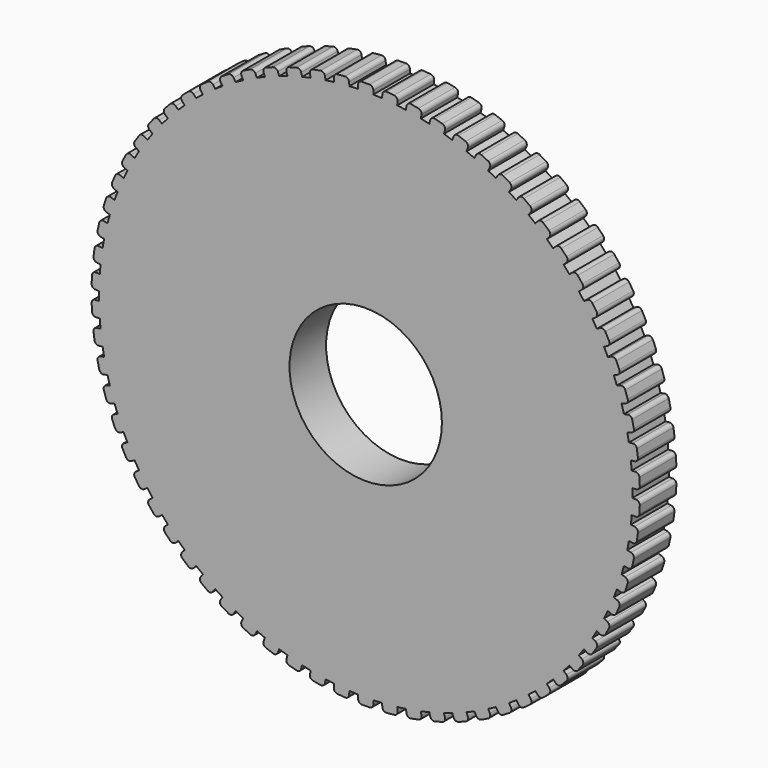
from build123d import *

# Parameters (mm, degrees)
F0_R     = 10
F1_DEPTH = 6


with BuildPart() as f1:
    # F0 (on Front) → F1 (new body)
    with BuildSketch(Plane.XZ):
        with BuildLine():
            Line((-1, 35.485711), (-1, 34.985711))
            ThreePointArc((-1, 34.985711), (-1.570269, 34.964757), (-2.140121, 34.934508))
            Line((-2.140121, 34.934508), (-2.18494, 35.432496))
            ThreePointArc((-2.18494, 35.432496), (-2.36249, 35.771498), (-2.727747, 35.885663))
            Line((-2.727747, 35.885663), (-3.723721, 35.796024))
            ThreePointArc((-3.723721, 35.796024), (-4.062724, 35.618474), (-4.176889, 35.253217))
            Line((-4.176889, 35.253217), (-4.132069, 34.75523))
            ThreePointArc((-4.132069, 34.75523), (-4.698164, 34.683242), (-5.26301, 34.602033))
            Line((-5.26301, 34.602033), (-5.352289, 35.093998))
            ThreePointArc((-5.352289, 35.093998), (-5.559511, 35.415721), (-5.933532, 35.496685))
            Line((-5.933532, 35.496685), (-6.917462, 35.318128))
            ThreePointArc((-6.917462, 35.318128), (-7.239184, 35.110905), (-7.320148, 34.736884))
            Line((-7.320148, 34.736884), (-7.23087, 34.24492))
            ThreePointArc((-7.23087, 34.24492), (-7.788233, 34.122477), (-8.343525, 33.990963))
            Line((-8.343525, 33.990963), (-8.476544, 34.472945))
            ThreePointArc((-8.476544, 34.472945), (-8.711771, 34.774797), (-9.091544, 34.821908))
            Line((-9.091544, 34.821908), (-10.055507, 34.555871))
            ThreePointArc((-10.055507, 34.555871), (-10.357359, 34.320644), (-10.40447, 33.940871))
            Line((-10.40447, 33.940871), (-10.271451, 33.45889))
            ThreePointArc((-10.271451, 33.45889), (-10.815595, 33.286978), (-11.356863, 33.106218))
            Line((-11.356863, 33.106218), (-11.532551, 33.574335))
            ThreePointArc((-11.532551, 33.574335), (-11.793889, 33.853887), (-12.176356, 33.866765))
            Line((-12.176356, 33.866765), (-13.11259, 33.51539))
            ThreePointArc((-13.11259, 33.51539), (-13.392142, 33.254052), (-13.40502, 32.871586))
            Line((-13.40502, 32.871586), (-13.229333, 32.403468))
            ThreePointArc((-13.229333, 32.403468), (-13.755876, 32.183472), (-14.278762, 31.954921))
            Line((-14.278762, 31.954921), (-14.495704, 32.405405))
            ThreePointArc((-14.495704, 32.405405), (-14.781049, 32.660405), (-15.163131, 32.638948))
            Line((-15.163131, 32.638948), (-16.064099, 32.205064))
            ThreePointArc((-16.064099, 32.205064), (-16.319099, 31.919719), (-16.297642, 31.537637))
            Line((-16.297642, 31.537637), (-16.0807, 31.087153))
            ThreePointArc((-16.0807, 31.087153), (-16.585403, 30.820844), (-17.085697, 30.546341))
            Line((-17.085697, 30.546341), (-17.342147, 30.975565))
            ThreePointArc((-17.342147, 30.975565), (-17.649201, 31.203961), (-18.027821, 31.14834))
            Line((-18.027821, 31.14834), (-18.88627, 30.635441))
            ThreePointArc((-18.88627, 30.635441), (-19.114665, 30.328387), (-19.059045, 29.949767))
            Line((-19.059045, 29.949767), (-18.802595, 29.520542))
            ThreePointArc((-18.802595, 29.520542), (-19.281394, 29.210064), (-19.755068, 28.89182))
            Line((-19.755068, 28.89182), (-20.048961, 29.296329))
            ThreePointArc((-20.048961, 29.296329), (-20.375252, 29.49628), (-20.747362, 29.406945))
            Line((-20.747362, 29.406945), (-21.556379, 28.819159))
            ThreePointArc((-21.556379, 28.819159), (-21.75633, 28.492868), (-21.666995, 28.120758))
            Line((-21.666995, 28.120758), (-21.373102, 27.71625))
            ThreePointArc((-21.373102, 27.71625), (-21.822143, 27.364102), (-22.265383, 27.00468))
            Line((-22.265383, 27.00468), (-22.594352, 27.381215))
            ThreePointArc((-22.594352, 27.381215), (-22.937253, 27.551113), (-23.299857, 27.428782))
            Line((-23.299857, 27.428782), (-24.052929, 26.770843))
            ThreePointArc((-24.052929, 26.770843), (-24.222827, 26.427942), (-24.100495, 26.065338))
            Line((-24.100495, 26.065338), (-23.771526, 25.688802))
            ThreePointArc((-23.771526, 25.688802), (-24.187193, 25.29782), (-24.59643, 24.900113))
            Line((-24.59643, 24.900113), (-24.957827, 25.245645))
            ThreePointArc((-24.957827, 25.245645), (-25.314578, 25.384121), (-25.664756, 25.229778))
            Line((-25.664756, 25.229778), (-26.355819, 24.506984))
            ThreePointArc((-26.355819, 24.506984), (-26.494295, 24.150233), (-26.339953, 23.800055))
            Line((-26.339953, 23.800055), (-25.978555, 23.454524))
            ThreePointArc((-25.978555, 23.454524), (-26.357501, 23.027855), (-26.729441, 22.595066))
            Line((-26.729441, 22.595066), (-27.120357, 22.906811))
            ThreePointArc((-27.120357, 22.906811), (-27.488084, 23.012751), (-27.823017, 22.82764))
            Line((-27.823017, 22.82764), (-28.446507, 22.045808))
            ThreePointArc((-28.446507, 22.045808), (-28.552447, 21.678081), (-28.367336, 21.343148))
            Line((-28.367336, 21.343148), (-27.97642, 21.031403))
            ThreePointArc((-27.97642, 21.031403), (-28.315595, 20.572484), (-28.647242, 20.108096))
            Line((-28.647242, 20.108096), (-29.064529, 20.383545))
            ThreePointArc((-29.064529, 20.383545), (-29.440272, 20.456096), (-29.757264, 20.241706))
            Line((-29.757264, 20.241706), (-30.308161, 19.407133))
            ThreePointArc((-30.308161, 19.407133), (-30.380712, 19.03139), (-30.166323, 18.714398))
            Line((-30.166323, 18.714398), (-29.749036, 18.43895))
            ThreePointArc((-29.749036, 18.43895), (-30.045708, 17.951475), (-30.334392, 17.459228))
            Line((-30.334392, 17.459228), (-30.77469, 17.696162))
            ThreePointArc((-30.77469, 17.696162), (-31.155424, 17.73474), (-31.451922, 17.492799))
            Line((-31.451922, 17.492799), (-31.925791, 16.612203))
            ThreePointArc((-31.925791, 16.612203), (-31.964369, 16.231469), (-31.722428, 15.934971))
            Line((-31.722428, 15.934971), (-31.28213, 15.698037))
            ThreePointArc((-31.28213, 15.698037), (-31.53391, 15.185931), (-31.777308, 14.669788))
            Line((-31.777308, 14.669788), (-32.237072, 14.866301))
            ThreePointArc((-32.237072, 14.866301), (-32.619731, 14.870594), (-32.893349, 14.603049))
            Line((-32.893349, 14.603049), (-33.286374, 13.683521))
            ThreePointArc((-33.286374, 13.683521), (-33.290667, 13.300862), (-33.023122, 13.027245))
            Line((-33.023122, 13.027245), (-32.563358, 12.830733))
            ThreePointArc((-32.563358, 12.830733), (-32.76822, 12.298119), (-32.964372, 11.762236))
            Line((-32.964372, 11.762236), (-33.4399, 11.916744))
            ThreePointArc((-33.4399, 11.916744), (-33.821404, 11.886719), (-34.069937, 11.595725))
            Line((-34.069937, 11.595725), (-34.378954, 10.644668))
            ThreePointArc((-34.378954, 10.644668), (-34.348929, 10.263164), (-34.057934, 10.014631))
            Line((-34.057934, 10.014631), (-33.582406, 9.860123))
            ThreePointArc((-33.582406, 9.860123), (-33.7387, 9.31129), (-33.886026, 8.759981))
            Line((-33.886026, 8.759981), (-34.37349, 8.871242))
            ThreePointArc((-34.37349, 8.871242), (-34.750766, 8.80714), (-34.972214, 8.495038))
            Line((-34.972214, 8.495038), (-35.194735, 7.52011))
            ThreePointArc((-35.194735, 7.52011), (-35.130633, 7.142834), (-34.818531, 6.921386))
            Line((-34.818531, 6.921386), (-34.331067, 6.810125))
            ThreePointArc((-34.331067, 6.810125), (-34.437536, 6.249491), (-34.534849, 5.687196))
            Line((-34.534849, 5.687196), (-35.030324, 5.754313))
            ThreePointArc((-35.030324, 5.754313), (-35.400336, 5.65665), (-35.592915, 5.325954))
            Line((-35.592915, 5.325954), (-35.727149, 4.335005))
            ThreePointArc((-35.727149, 4.335005), (-35.629486, 3.964993), (-35.29879, 3.772413))
            Line((-35.29879, 3.772413), (-34.803316, 3.705297))
            ThreePointArc((-34.803316, 3.705297), (-34.8591, 3.137376), (-34.905618, 2.568621))
            Line((-34.905618, 2.568621), (-35.405115, 2.591053))
            ThreePointArc((-35.405115, 2.591053), (-35.764882, 2.460616), (-35.927044, 2.113989))
            Line((-35.927044, 2.113989), (-35.971909, 1.114996))
            ThreePointArc((-35.971909, 1.114996), (-35.841472, 0.755229), (-35.494844, 0.593067))
            Line((-35.494844, 0.593067), (-34.995348, 0.570635))
            ThreePointArc((-34.995348, 0.570635), (-35, 0), (-34.995348, -0.570635))
            Line((-34.995348, -0.570635), (-35.494844, -0.593067))
            ThreePointArc((-35.494844, -0.593067), (-35.841472, -0.755229), (-35.971909, -1.114996))
            Line((-35.971909, -1.114996), (-35.927044, -2.113989))
            ThreePointArc((-35.927044, -2.113989), (-35.764882, -2.460616), (-35.405115, -2.591053))
            Line((-35.405115, -2.591053), (-34.905618, -2.568621))
            ThreePointArc((-34.905618, -2.568621), (-34.8591, -3.137376), (-34.803316, -3.705297))
            Line((-34.803316, -3.705297), (-35.29879, -3.772413))
            ThreePointArc((-35.29879, -3.772413), (-35.629486, -3.964993), (-35.727149, -4.335005))
            Line((-35.727149, -4.335005), (-35.592915, -5.325954))
            ThreePointArc((-35.592915, -5.325954), (-35.400336, -5.65665), (-35.030324, -5.754313))
            Line((-35.030324, -5.754313), (-34.534849, -5.687196))
            ThreePointArc((-34.534849, -5.687196), (-34.437536, -6.249491), (-34.331067, -6.810125))
            Line((-34.331067, -6.810125), (-34.818531, -6.921386))
            ThreePointArc((-34.818531, -6.921386), (-35.130633, -7.142834), (-35.194735, -7.52011))
            Line((-35.194735, -7.52011), (-34.972214, -8.495038))
            ThreePointArc((-34.972214, -8.495038), (-34.750766, -8.80714), (-34.37349, -8.871242))
            Line((-34.37349, -8.871242), (-33.886026, -8.759981))
            ThreePointArc((-33.886026, -8.759981), (-33.7387, -9.31129), (-33.582406, -9.860123))
            Line((-33.582406, -9.860123), (-34.057934, -10.014631))
            ThreePointArc((-34.057934, -10.014631), (-34.348929, -10.263164), (-34.378954, -10.644668))
            Line((-34.378954, -10.644668), (-34.069937, -11.595725))
            ThreePointArc((-34.069937, -11.595725), (-33.821404, -11.886719), (-33.4399, -11.916744))
            Line((-33.4399, -11.916744), (-32.964372, -11.762236))
            ThreePointArc((-32.964372, -11.762236), (-32.76822, -12.298119), (-32.563358, -12.830733))
            Line((-32.563358, -12.830733), (-33.023122, -13.027245))
            ThreePointArc((-33.023122, -13.027245), (-33.290667, -13.300862), (-33.286374, -13.683521))
            Line((-33.286374, -13.683521), (-32.893349, -14.603049))
            ThreePointArc((-32.893349, -14.603049), (-32.619731, -14.870594), (-32.237072, -14.866301))
            Line((-32.237072, -14.866301), (-31.777308, -14.669788))
            ThreePointArc((-31.777308, -14.669788), (-31.53391, -15.185931), (-31.28213, -15.698037))
            Line((-31.28213, -15.698037), (-31.722428, -15.934971))
            ThreePointArc((-31.722428, -15.934971), (-31.964369, -16.231469), (-31.925791, -16.612203))
            Line((-31.925791, -16.612203), (-31.451922, -17.492799))
            ThreePointArc((-31.451922, -17.492799), (-31.155424, -17.73474), (-30.77469, -17.696162))
            Line((-30.77469, -17.696162), (-30.334392, -17.459228))
            ThreePointArc((-30.334392, -17.459228), (-30.045708, -17.951475), (-29.749036, -18.43895))
            Line((-29.749036, -18.43895), (-30.166323, -18.714398))
            ThreePointArc((-30.166323, -18.714398), (-30.380712, -19.03139), (-30.308161, -19.407133))
            Line((-30.308161, -19.407133), (-29.757264, -20.241706))
            ThreePointArc((-29.757264, -20.241706), (-29.440272, -20.456096), (-29.064529, -20.383545))
            Line((-29.064529, -20.383545), (-28.647242, -20.108096))
            ThreePointArc((-28.647242, -20.108096), (-28.315595, -20.572484), (-27.97642, -21.031403))
            Line((-27.97642, -21.031403), (-28.367336, -21.343148))
            ThreePointArc((-28.367336, -21.343148), (-28.552447, -21.678081), (-28.446507, -22.045808))
            Line((-28.446507, -22.045808), (-27.823017, -22.82764))
            ThreePointArc((-27.823017, -22.82764), (-27.488084, -23.012751), (-27.120357, -22.906811))
            Line((-27.120357, -22.906811), (-26.729441, -22.595066))
            ThreePointArc((-26.729441, -22.595066), (-26.357501, -23.027855), (-25.978555, -23.454524))
            Line((-25.978555, -23.454524), (-26.339953, -23.800055))
            ThreePointArc((-26.339953, -23.800055), (-26.494295, -24.150233), (-26.355819, -24.506984))
            Line((-26.355819, -24.506984), (-25.664756, -25.229778))
            ThreePointArc((-25.664756, -25.229778), (-25.314578, -25.384121), (-24.957827, -25.245645))
            Line((-24.957827, -25.245645), (-24.59643, -24.900113))
            ThreePointArc((-24.59643, -24.900113), (-24.187193, -25.29782), (-23.771526, -25.688802))
            Line((-23.771526, -25.688802), (-24.100495, -26.065338))
            ThreePointArc((-24.100495, -26.065338), (-24.222827, -26.427942), (-24.052929, -26.770843))
            Line((-24.052929, -26.770843), (-23.299857, -27.428782))
            ThreePointArc((-23.299857, -27.428782), (-22.937253, -27.551113), (-22.594352, -27.381215))
            Line((-22.594352, -27.381215), (-22.265383, -27.00468))
            ThreePointArc((-22.265383, -27.00468), (-21.822143, -27.364102), (-21.373102, -27.71625))
            Line((-21.373102, -27.71625), (-21.666995, -28.120758))
            ThreePointArc((-21.666995, -28.120758), (-21.75633, -28.492868), (-21.556379, -28.819159))
            Line((-21.556379, -28.819159), (-20.747362, -29.406945))
            ThreePointArc((-20.747362, -29.406945), (-20.375252, -29.49628), (-20.048961, -29.296329))
            Line((-20.048961, -29.296329), (-19.755068, -28.89182))
            ThreePointArc((-19.755068, -28.89182), (-19.281394, -29.210064), (-18.802595, -29.520542))
            Line((-18.802595, -29.520542), (-19.059045, -29.949767))
            ThreePointArc((-19.059045, -29.949767), (-19.114665, -30.328387), (-18.88627, -30.635441))
            Line((-18.88627, -30.635441), (-18.027821, -31.14834))
            ThreePointArc((-18.027821, -31.14834), (-17.649201, -31.203961), (-17.342147, -30.975565))
            Line((-17.342147, -30.975565), (-17.085697, -30.546341))
            ThreePointArc((-17.085697, -30.546341), (-16.585403, -30.820844), (-16.0807, -31.087153))
            Line((-16.0807, -31.087153), (-16.297642, -31.537637))
            ThreePointArc((-16.297642, -31.537637), (-16.319099, -31.919719), (-16.064099, -32.205064))
            Line((-16.064099, -32.205064), (-15.163131, -32.638948))
            ThreePointArc((-15.163131, -32.638948), (-14.781049, -32.660405), (-14.495704, -32.405405))
            Line((-14.495704, -32.405405), (-14.278762, -31.954921))
            ThreePointArc((-14.278762, -31.954921), (-13.755876, -32.183472), (-13.229333, -32.403468))
            Line((-13.229333, -32.403468), (-13.40502, -32.871586))
            ThreePointArc((-13.40502, -32.871586), (-13.392142, -33.254052), (-13.11259, -33.51539))
            Line((-13.11259, -33.51539), (-12.176356, -33.866765))
            ThreePointArc((-12.176356, -33.866765), (-11.793889, -33.853887), (-11.532551, -33.574335))
            Line((-11.532551, -33.574335), (-11.356863, -33.106218))
            ThreePointArc((-11.356863, -33.106218), (-10.815595, -33.286978), (-10.271451, -33.45889))
            Line((-10.271451, -33.45889), (-10.40447, -33.940871))
            ThreePointArc((-10.40447, -33.940871), (-10.357359, -34.320644), (-10.055507, -34.555871))
            Line((-10.055507, -34.555871), (-9.091544, -34.821908))
            ThreePointArc((-9.091544, -34.821908), (-8.711771, -34.774797), (-8.476544, -34.472945))
            Line((-8.476544, -34.472945), (-8.343525, -33.990963))
            ThreePointArc((-8.343525, -33.990963), (-7.788233, -34.122477), (-7.23087, -34.24492))
            Line((-7.23087, -34.24492), (-7.320148, -34.736884))
            ThreePointArc((-7.320148, -34.736884), (-7.239184, -35.110905), (-6.917462, -35.318128))
            Line((-6.917462, -35.318128), (-5.933532, -35.496685))
            ThreePointArc((-5.933532, -35.496685), (-5.559511, -35.415721), (-5.352289, -35.093998))
            Line((-5.352289, -35.093998), (-5.26301, -34.602033))
            ThreePointArc((-5.26301, -34.602033), (-4.698164, -34.683242), (-4.132069, -34.75523))
            Line((-4.132069, -34.75523), (-4.176889, -35.253217))
            ThreePointArc((-4.176889, -35.253217), (-4.062724, -35.618474), (-3.723721, -35.796024))
            Line((-3.723721, -35.796024), (-2.727747, -35.885663))
            ThreePointArc((-2.727747, -35.885663), (-2.36249, -35.771498), (-2.18494, -35.432496))
            Line((-2.18494, -35.432496), (-2.140121, -34.934508))
            ThreePointArc((-2.140121, -34.934508), (-1.570269, -34.964757), (-1, -34.985711))
            Line((-1, -34.985711), (-1, -35.485711))
            ThreePointArc((-1, -35.485711), (-0.853553, -35.839265), (-0.5, -35.985711))
            Line((-0.5, -35.985711), (0.5, -35.985711))
            ThreePointArc((0.5, -35.985711), (0.853553, -35.839265), (1, -35.485711))
            Line((1, -35.485711), (1, -34.985711))
            ThreePointArc((1, -34.985711), (1.570269, -34.964757), (2.140121, -34.934508))
            Line((2.140121, -34.934508), (2.18494, -35.432496))
            ThreePointArc((2.18494, -35.432496), (2.36249, -35.771498), (2.727747, -35.885663))
            Line((2.727747, -35.885663), (3.723721, -35.796024))
            ThreePointArc((3.723721, -35.796024), (4.062724, -35.618474), (4.176889, -35.253217))
            Line((4.176889, -35.253217), (4.132069, -34.75523))
            ThreePointArc((4.132069, -34.75523), (4.698164, -34.683242), (5.26301, -34.602033))
            Line((5.26301, -34.602033), (5.352289, -35.093998))
            ThreePointArc((5.352289, -35.093998), (5.559511, -35.415721), (5.933532, -35.496685))
            Line((5.933532, -35.496685), (6.917462, -35.318128))
            ThreePointArc((6.917462, -35.318128), (7.239184, -35.110905), (7.320148, -34.736884))
            Line((7.320148, -34.736884), (7.23087, -34.24492))
            ThreePointArc((7.23087, -34.24492), (7.788233, -34.122477), (8.343525, -33.990963))
            Line((8.343525, -33.990963), (8.476544, -34.472945))
            ThreePointArc((8.476544, -34.472945), (8.711771, -34.774797), (9.091544, -34.821908))
            Line((9.091544, -34.821908), (10.055507, -34.555871))
            ThreePointArc((10.055507, -34.555871), (10.357359, -34.320644), (10.40447, -33.940871))
            Line((10.40447, -33.940871), (10.271451, -33.45889))
            ThreePointArc((10.271451, -33.45889), (10.815595, -33.286978), (11.356863, -33.106218))
            Line((11.356863, -33.106218), (11.532551, -33.574335))
            ThreePointArc((11.532551, -33.574335), (11.793889, -33.853887), (12.176356, -33.866765))
            Line((12.176356, -33.866765), (13.11259, -33.51539))
            ThreePointArc((13.11259, -33.51539), (13.392142, -33.254052), (13.40502, -32.871586))
            Line((13.40502, -32.871586), (13.229333, -32.403468))
            ThreePointArc((13.229333, -32.403468), (13.755876, -32.183472), (14.278762, -31.954921))
            Line((14.278762, -31.954921), (14.495704, -32.405405))
            ThreePointArc((14.495704, -32.405405), (14.781049, -32.660405), (15.163131, -32.638948))
            Line((15.163131, -32.638948), (16.064099, -32.205064))
            ThreePointArc((16.064099, -32.205064), (16.319099, -31.919719), (16.297642, -31.537637))
            Line((16.297642, -31.537637), (16.0807, -31.087153))
            ThreePointArc((16.0807, -31.087153), (16.585403, -30.820844), (17.085697, -30.546341))
            Line((17.085697, -30.546341), (17.342147, -30.975565))
            ThreePointArc((17.342147, -30.975565), (17.649201, -31.203961), (18.027821, -31.14834))
            Line((18.027821, -31.14834), (18.88627, -30.635441))
            ThreePointArc((18.88627, -30.635441), (19.114665, -30.328387), (19.059045, -29.949767))
            Line((19.059045, -29.949767), (18.802595, -29.520542))
            ThreePointArc((18.802595, -29.520542), (19.281394, -29.210064), (19.755068, -28.89182))
            Line((19.755068, -28.89182), (20.048961, -29.296329))
            ThreePointArc((20.048961, -29.296329), (20.375252, -29.49628), (20.747362, -29.406945))
            Line((20.747362, -29.406945), (21.556379, -28.819159))
            ThreePointArc((21.556379, -28.819159), (21.75633, -28.492868), (21.666995, -28.120758))
            Line((21.666995, -28.120758), (21.373102, -27.71625))
            ThreePointArc((21.373102, -27.71625), (21.822143, -27.364102), (22.265383, -27.00468))
            Line((22.265383, -27.00468), (22.594352, -27.381215))
            ThreePointArc((22.594352, -27.381215), (22.937253, -27.551113), (23.299857, -27.428782))
            Line((23.299857, -27.428782), (24.052929, -26.770843))
            ThreePointArc((24.052929, -26.770843), (24.222827, -26.427942), (24.100495, -26.065338))
            Line((24.100495, -26.065338), (23.771526, -25.688802))
            ThreePointArc((23.771526, -25.688802), (24.187193, -25.29782), (24.59643, -24.900113))
            Line((24.59643, -24.900113), (24.957827, -25.245645))
            ThreePointArc((24.957827, -25.245645), (25.314578, -25.384121), (25.664756, -25.229778))
            Line((25.664756, -25.229778), (26.355819, -24.506984))
            ThreePointArc((26.355819, -24.506984), (26.494295, -24.150233), (26.339953, -23.800055))
            Line((26.339953, -23.800055), (25.978555, -23.454524))
            ThreePointArc((25.978555, -23.454524), (26.357501, -23.027855), (26.729441, -22.595066))
            Line((26.729441, -22.595066), (27.120357, -22.906811))
            ThreePointArc((27.120357, -22.906811), (27.488084, -23.012751), (27.823017, -22.82764))
            Line((27.823017, -22.82764), (28.446507, -22.045808))
            ThreePointArc((28.446507, -22.045808), (28.552447, -21.678081), (28.367336, -21.343148))
            Line((28.367336, -21.343148), (27.97642, -21.031403))
            ThreePointArc((27.97642, -21.031403), (28.315595, -20.572484), (28.647242, -20.108096))
            Line((28.647242, -20.108096), (29.064529, -20.383545))
            ThreePointArc((29.064529, -20.383545), (29.440272, -20.456096), (29.757264, -20.241706))
            Line((29.757264, -20.241706), (30.308161, -19.407133))
            ThreePointArc((30.308161, -19.407133), (30.380712, -19.03139), (30.166323, -18.714398))
            Line((30.166323, -18.714398), (29.749036, -18.43895))
            ThreePointArc((29.749036, -18.43895), (30.045708, -17.951475), (30.334392, -17.459228))
            Line((30.334392, -17.459228), (30.77469, -17.696162))
            ThreePointArc((30.77469, -17.696162), (31.155424, -17.73474), (31.451922, -17.492799))
            Line((31.451922, -17.492799), (31.925791, -16.612203))
            ThreePointArc((31.925791, -16.612203), (31.964369, -16.231469), (31.722428, -15.934971))
            Line((31.722428, -15.934971), (31.28213, -15.698037))
            ThreePointArc((31.28213, -15.698037), (31.53391, -15.185931), (31.777308, -14.669788))
            Line((31.777308, -14.669788), (32.237072, -14.866301))
            ThreePointArc((32.237072, -14.866301), (32.619731, -14.870594), (32.893349, -14.603049))
            Line((32.893349, -14.603049), (33.286374, -13.683521))
            ThreePointArc((33.286374, -13.683521), (33.290667, -13.300862), (33.023122, -13.027245))
            Line((33.023122, -13.027245), (32.563358, -12.830733))
            ThreePointArc((32.563358, -12.830733), (32.76822, -12.298119), (32.964372, -11.762236))
            Line((32.964372, -11.762236), (33.4399, -11.916744))
            ThreePointArc((33.4399, -11.916744), (33.821404, -11.886719), (34.069937, -11.595725))
            Line((34.069937, -11.595725), (34.378954, -10.644668))
            ThreePointArc((34.378954, -10.644668), (34.348929, -10.263164), (34.057934, -10.014631))
            Line((34.057934, -10.014631), (33.582406, -9.860123))
            ThreePointArc((33.582406, -9.860123), (33.7387, -9.31129), (33.886026, -8.759981))
            Line((33.886026, -8.759981), (34.37349, -8.871242))
            ThreePointArc((34.37349, -8.871242), (34.750766, -8.80714), (34.972214, -8.495038))
            Line((34.972214, -8.495038), (35.194735, -7.52011))
            ThreePointArc((35.194735, -7.52011), (35.130633, -7.142834), (34.818531, -6.921386))
            Line((34.818531, -6.921386), (34.331067, -6.810125))
            ThreePointArc((34.331067, -6.810125), (34.437536, -6.249491), (34.534849, -5.687196))
            Line((34.534849, -5.687196), (35.030324, -5.754313))
            ThreePointArc((35.030324, -5.754313), (35.400336, -5.65665), (35.592915, -5.325954))
            Line((35.592915, -5.325954), (35.727149, -4.335005))
            ThreePointArc((35.727149, -4.335005), (35.629486, -3.964993), (35.29879, -3.772413))
            Line((35.29879, -3.772413), (34.803316, -3.705297))
            ThreePointArc((34.803316, -3.705297), (34.8591, -3.137376), (34.905618, -2.568621))
            Line((34.905618, -2.568621), (35.405115, -2.591053))
            ThreePointArc((35.405115, -2.591053), (35.764882, -2.460616), (35.927044, -2.113989))
            Line((35.927044, -2.113989), (35.971909, -1.114996))
            ThreePointArc((35.971909, -1.114996), (35.841472, -0.755229), (35.494844, -0.593067))
            Line((35.494844, -0.593067), (34.995348, -0.570635))
            ThreePointArc((34.995348, -0.570635), (35, 0), (34.995348, 0.570635))
            Line((34.995348, 0.570635), (35.494844, 0.593067))
            ThreePointArc((35.494844, 0.593067), (35.841472, 0.755229), (35.971909, 1.114996))
            Line((35.971909, 1.114996), (35.927044, 2.113989))
            ThreePointArc((35.927044, 2.113989), (35.764882, 2.460616), (35.405115, 2.591053))
            Line((35.405115, 2.591053), (34.905618, 2.568621))
            ThreePointArc((34.905618, 2.568621), (34.8591, 3.137376), (34.803316, 3.705297))
            Line((34.803316, 3.705297), (35.29879, 3.772413))
            ThreePointArc((35.29879, 3.772413), (35.629486, 3.964993), (35.727149, 4.335005))
            Line((35.727149, 4.335005), (35.592915, 5.325954))
            ThreePointArc((35.592915, 5.325954), (35.400336, 5.65665), (35.030324, 5.754313))
            Line((35.030324, 5.754313), (34.534849, 5.687196))
            ThreePointArc((34.534849, 5.687196), (34.437536, 6.249491), (34.331067, 6.810125))
            Line((34.331067, 6.810125), (34.818531, 6.921386))
            ThreePointArc((34.818531, 6.921386), (35.130633, 7.142834), (35.194735, 7.52011))
            Line((35.194735, 7.52011), (34.972214, 8.495038))
            ThreePointArc((34.972214, 8.495038), (34.750766, 8.80714), (34.37349, 8.871242))
            Line((34.37349, 8.871242), (33.886026, 8.759981))
            ThreePointArc((33.886026, 8.759981), (33.7387, 9.31129), (33.582406, 9.860123))
            Line((33.582406, 9.860123), (34.057934, 10.014631))
            ThreePointArc((34.057934, 10.014631), (34.348929, 10.263164), (34.378954, 10.644668))
            Line((34.378954, 10.644668), (34.069937, 11.595725))
            ThreePointArc((34.069937, 11.595725), (33.821404, 11.886719), (33.4399, 11.916744))
            Line((33.4399, 11.916744), (32.964372, 11.762236))
            ThreePointArc((32.964372, 11.762236), (32.76822, 12.298119), (32.563358, 12.830733))
            Line((32.563358, 12.830733), (33.023122, 13.027245))
            ThreePointArc((33.023122, 13.027245), (33.290667, 13.300862), (33.286374, 13.683521))
            Line((33.286374, 13.683521), (32.893349, 14.603049))
            ThreePointArc((32.893349, 14.603049), (32.619731, 14.870594), (32.237072, 14.866301))
            Line((32.237072, 14.866301), (31.777308, 14.669788))
            ThreePointArc((31.777308, 14.669788), (31.53391, 15.185931), (31.28213, 15.698037))
            Line((31.28213, 15.698037), (31.722428, 15.934971))
            ThreePointArc((31.722428, 15.934971), (31.964369, 16.231469), (31.925791, 16.612203))
            Line((31.925791, 16.612203), (31.451922, 17.492799))
            ThreePointArc((31.451922, 17.492799), (31.155424, 17.73474), (30.77469, 17.696162))
            Line((30.77469, 17.696162), (30.334392, 17.459228))
            ThreePointArc((30.334392, 17.459228), (30.045708, 17.951475), (29.749036, 18.43895))
            Line((29.749036, 18.43895), (30.166323, 18.714398))
            ThreePointArc((30.166323, 18.714398), (30.380712, 19.03139), (30.308161, 19.407133))
            Line((30.308161, 19.407133), (29.757264, 20.241706))
            ThreePointArc((29.757264, 20.241706), (29.440272, 20.456096), (29.064529, 20.383545))
            Line((29.064529, 20.383545), (28.647242, 20.108096))
            ThreePointArc((28.647242, 20.108096), (28.315595, 20.572484), (27.97642, 21.031403))
            Line((27.97642, 21.031403), (28.367336, 21.343148))
            ThreePointArc((28.367336, 21.343148), (28.552447, 21.678081), (28.446507, 22.045808))
            Line((28.446507, 22.045808), (27.823017, 22.82764))
            ThreePointArc((27.823017, 22.82764), (27.488084, 23.012751), (27.120357, 22.906811))
            Line((27.120357, 22.906811), (26.729441, 22.595066))
            ThreePointArc((26.729441, 22.595066), (26.357501, 23.027855), (25.978555, 23.454524))
            Line((25.978555, 23.454524), (26.339953, 23.800055))
            ThreePointArc((26.339953, 23.800055), (26.494295, 24.150233), (26.355819, 24.506984))
            Line((26.355819, 24.506984), (25.664756, 25.229778))
            ThreePointArc((25.664756, 25.229778), (25.314578, 25.384121), (24.957827, 25.245645))
            Line((24.957827, 25.245645), (24.59643, 24.900113))
            ThreePointArc((24.59643, 24.900113), (24.187193, 25.29782), (23.771526, 25.688802))
            Line((23.771526, 25.688802), (24.100495, 26.065338))
            ThreePointArc((24.100495, 26.065338), (24.222827, 26.427942), (24.052929, 26.770843))
            Line((24.052929, 26.770843), (23.299857, 27.428782))
            ThreePointArc((23.299857, 27.428782), (22.937253, 27.551113), (22.594352, 27.381215))
            Line((22.594352, 27.381215), (22.265383, 27.00468))
            ThreePointArc((22.265383, 27.00468), (21.822143, 27.364102), (21.373102, 27.71625))
            Line((21.373102, 27.71625), (21.666995, 28.120758))
            ThreePointArc((21.666995, 28.120758), (21.75633, 28.492868), (21.556379, 28.819159))
            Line((21.556379, 28.819159), (20.747362, 29.406945))
            ThreePointArc((20.747362, 29.406945), (20.375252, 29.49628), (20.048961, 29.296329))
            Line((20.048961, 29.296329), (19.755068, 28.89182))
            ThreePointArc((19.755068, 28.89182), (19.281394, 29.210064), (18.802595, 29.520542))
            Line((18.802595, 29.520542), (19.059045, 29.949767))
            ThreePointArc((19.059045, 29.949767), (19.114665, 30.328387), (18.88627, 30.635441))
            Line((18.88627, 30.635441), (18.027821, 31.14834))
            ThreePointArc((18.027821, 31.14834), (17.649201, 31.203961), (17.342147, 30.975565))
            Line((17.342147, 30.975565), (17.085697, 30.546341))
            ThreePointArc((17.085697, 30.546341), (16.585403, 30.820844), (16.0807, 31.087153))
            Line((16.0807, 31.087153), (16.297642, 31.537637))
            ThreePointArc((16.297642, 31.537637), (16.319099, 31.919719), (16.064099, 32.205064))
            Line((16.064099, 32.205064), (15.163131, 32.638948))
            ThreePointArc((15.163131, 32.638948), (14.781049, 32.660405), (14.495704, 32.405405))
            Line((14.495704, 32.405405), (14.278762, 31.954921))
            ThreePointArc((14.278762, 31.954921), (13.755876, 32.183472), (13.229333, 32.403468))
            Line((13.229333, 32.403468), (13.40502, 32.871586))
            ThreePointArc((13.40502, 32.871586), (13.392142, 33.254052), (13.11259, 33.51539))
            Line((13.11259, 33.51539), (12.176356, 33.866765))
            ThreePointArc((12.176356, 33.866765), (11.793889, 33.853887), (11.532551, 33.574335))
            Line((11.532551, 33.574335), (11.356863, 33.106218))
            ThreePointArc((11.356863, 33.106218), (10.815595, 33.286978), (10.271451, 33.45889))
            Line((10.271451, 33.45889), (10.40447, 33.940871))
            ThreePointArc((10.40447, 33.940871), (10.357359, 34.320644), (10.055507, 34.555871))
            Line((10.055507, 34.555871), (9.091544, 34.821908))
            ThreePointArc((9.091544, 34.821908), (8.711771, 34.774797), (8.476544, 34.472945))
            Line((8.476544, 34.472945), (8.343525, 33.990963))
            ThreePointArc((8.343525, 33.990963), (7.788233, 34.122477), (7.23087, 34.24492))
            Line((7.23087, 34.24492), (7.320148, 34.736884))
            ThreePointArc((7.320148, 34.736884), (7.239184, 35.110905), (6.917462, 35.318128))
            Line((6.917462, 35.318128), (5.933532, 35.496685))
            ThreePointArc((5.933532, 35.496685), (5.559511, 35.415721), (5.352289, 35.093998))
            Line((5.352289, 35.093998), (5.26301, 34.602033))
            ThreePointArc((5.26301, 34.602033), (4.698164, 34.683242), (4.132069, 34.75523))
            Line((4.132069, 34.75523), (4.176889, 35.253217))
            ThreePointArc((4.176889, 35.253217), (4.062724, 35.618474), (3.723721, 35.796024))
            Line((3.723721, 35.796024), (2.727747, 35.885663))
            ThreePointArc((2.727747, 35.885663), (2.36249, 35.771498), (2.18494, 35.432496))
            Line((2.18494, 35.432496), (2.140121, 34.934508))
            ThreePointArc((2.140121, 34.934508), (1.570269, 34.964757), (1, 34.985711))
            Line((1, 34.985711), (1, 35.485711))
            ThreePointArc((1, 35.485711), (0.853553, 35.839265), (0.5, 35.985711))
            Line((0.5, 35.985711), (-0.5, 35.985711))
            ThreePointArc((-0.5, 35.985711), (-0.853553, 35.839265), (-1, 35.485711))
        make_face()
        Circle(F0_R, mode=Mode.SUBTRACT)
    extrude(amount=F1_DEPTH)


solid = f1.part
